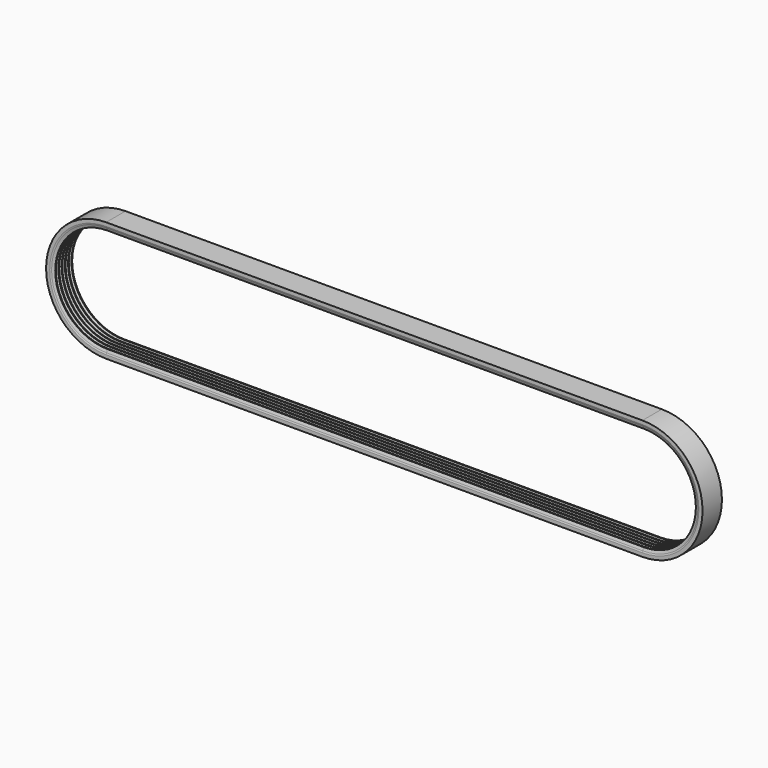
from build123d import *


with BuildPart() as f2:
    # F2: sweep along a path in F0
    with BuildLine(Plane.XZ) as f2_path:
        ThreePointArc((482.6, -50.800001), (533.4, -1e-06), (482.6, 50.799999))
        Line((482.6, 50.799999), (0, 50.799997))
        ThreePointArc((0, 50.799997), (-50.8, -3e-06), (0, -50.800003))
        Line((0, -50.800003), (482.6, -50.800001))
    # F1 (on Right) → F2 (sweep)
    with BuildSketch(Plane.YZ):
        Polygon((0, 54.057884), (-21.809931, 54.057884), (-21.809931, 50.799997), (-21.33248, 49.488209), (-20.405807, 46.942197), (-19.660659, 46.941388), (-18.25624, 50.799997), (-16.850712, 46.938339), (-15.963142, 46.937376), (-14.691085, 50.799997), (-14.080521, 49.271312), (-13.147116, 46.934321), (-12.402659, 46.933513), (-11.143086, 50.799997), (-9.583137, 46.930454), (-8.817837, 46.929623), (-7.350765, 50.799997), (-5.998807, 46.926565), (-5.239619, 46.925741), (-3.794765, 50.816843), (-2.175224, 46.922416), (-1.411626, 46.921587), (0, 50.799997), align=None)
    sweep(path=f2_path.line)


solid = f2.part
